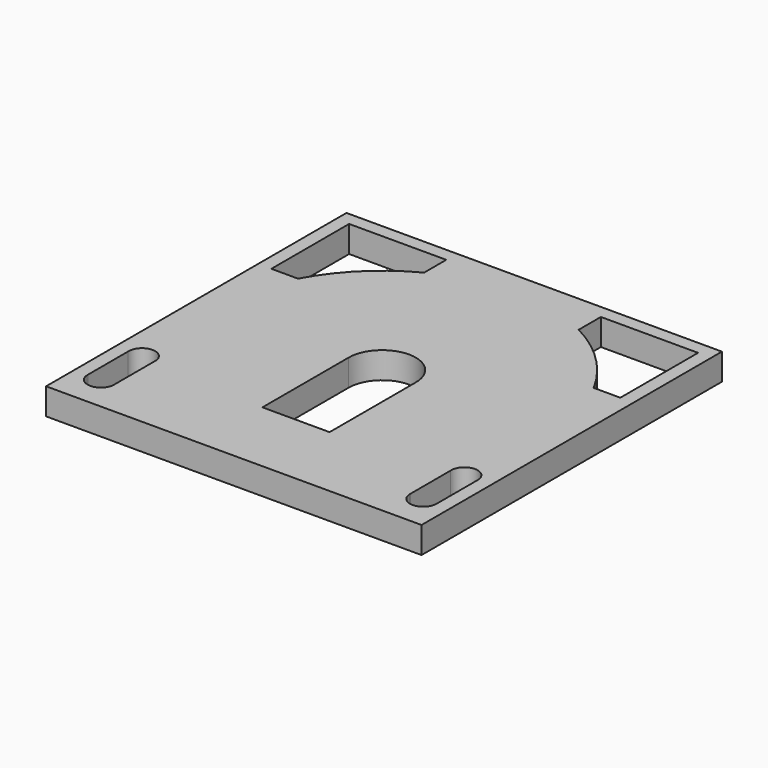
from build123d import *

# Parameters (mm, degrees)
F0_W     = 269.875
F0_H     = 273.05
F1_DEPTH = 19.05
F3_DEPTH = 19.05
F5_DEPTH = 19.05
F7_DEPTH = 19.05
F8_W     = 269.875
F8_H     = 3.175
F9_DEPTH = 19.05


with BuildPart() as f1:
    # F0 (on Top) → F1 (new body)
    with BuildSketch(Plane.XY):
        Rectangle(F0_W, F0_H)
    extrude(amount=F1_DEPTH)

    # F2 (on face) → F3 (cut, through all)
    with BuildSketch(Plane.XY.offset(19.05)):
        with BuildLine():
            ThreePointArc((-106.255823, 57.15), (-84.675295, 85.944848), (-55.5625, 107.094496))
            Line((-55.5625, 107.094496), (-55.5625, 127))
            Line((-55.5625, 127), (-125.4125, 127))
            Line((-125.4125, 127), (-125.4125, 57.15))
            Line((-125.4125, 57.15), (-106.255823, 57.15))
        make_face()
        with BuildLine():
            Line((125.4125, 57.15), (125.4125, 127))
            Line((125.4125, 127), (55.5625, 127))
            Line((55.5625, 127), (55.5625, 107.0864))
            ThreePointArc((55.5625, 107.0864), (84.67437, 85.94048), (106.255823, 57.15))
            Line((106.255823, 57.15), (125.4125, 57.15))
        make_face()
    extrude(amount=-F3_DEPTH, mode=Mode.SUBTRACT)

    # F4 (on face) → F5 (cut, through all)
    with BuildSketch(Plane.XY.offset(19.05)):
        with BuildLine():
            ThreePointArc((-125.4125, -107.445267), (-125.4252, -107.9373), (-125.4125, -108.429333))
            Line((-125.4125, -108.429333), (-125.4125, -107.445267))
        make_face()
        with BuildLine():
            Line((-125.4125, -107.445267), (-125.4125, -108.429333))
            ThreePointArc((-125.4125, -108.429333), (-115.8875, -117.475), (-106.3625, -108.429333))
            Line((-106.3625, -108.429333), (-106.3625, -107.445267))
            Line((-106.3625, -107.445267), (-106.3625, -71.514178))
            ThreePointArc((-106.3625, -71.514178), (-115.8875, -61.453752), (-125.4125, -71.514178))
            Line((-125.4125, -71.514178), (-125.4125, -107.445267))
        make_face()
        with BuildLine():
            Line((-106.3625, -107.445267), (-106.3625, -108.429333))
            ThreePointArc((-106.3625, -108.429333), (-106.3498, -107.9373), (-106.3625, -107.445267))
        make_face()
        with BuildLine():
            Line((106.3625, -71.485033), (106.3625, -70.993))
            Line((106.3625, -70.993), (125.4125, -70.993))
            Line((125.4125, -70.993), (125.4125, -71.485033))
            ThreePointArc((125.4125, -71.485033), (115.8875, -61.4553), (106.3625, -71.485033))
        make_face()
        with BuildLine():
            Line((125.4125, -70.993), (106.3625, -70.993))
            Line((106.3625, -70.993), (106.3625, -71.485033))
            Line((106.3625, -71.485033), (106.3625, -107.445267))
            Line((106.3625, -107.445267), (106.3625, -108.429333))
            ThreePointArc((106.3625, -108.429333), (115.8875, -117.475), (125.4125, -108.429333))
            Line((125.4125, -108.429333), (125.4125, -107.445267))
            Line((125.4125, -107.445267), (125.4125, -71.485033))
            Line((125.4125, -71.485033), (125.4125, -70.993))
        make_face()
        with BuildLine():
            Line((106.3625, -108.429333), (106.3625, -107.445267))
            ThreePointArc((106.3625, -107.445267), (106.3498, -107.9373), (106.3625, -108.429333))
        make_face()
        with BuildLine():
            ThreePointArc((125.4125, -108.429333), (125.4252, -107.9373), (125.4125, -107.445267))
            Line((125.4125, -107.445267), (125.4125, -108.429333))
        make_face()
    extrude(amount=-F5_DEPTH, mode=Mode.SUBTRACT)

    # F6 (on face) → F7 (cut, through all)
    with BuildSketch(Plane.XY.offset(19.05)):
        with BuildLine():
            Line((24.13, -77.47), (24.13, 0))
            ThreePointArc((24.13, 0), (0, 24.13), (-24.13, 0))
            Line((-24.13, 0), (-24.13, -77.47))
            Line((-24.13, -77.47), (24.13, -77.47))
        make_face()
    extrude(amount=-F7_DEPTH, mode=Mode.SUBTRACT)

    # F8 (on face) → F9 (cut, through all)
    with BuildSketch(Plane.XY.offset(19.05)):
        with Locations((0, -134.9375)):
            Rectangle(F8_W, F8_H)
    extrude(amount=-F9_DEPTH, mode=Mode.SUBTRACT)


solid = f1.part
